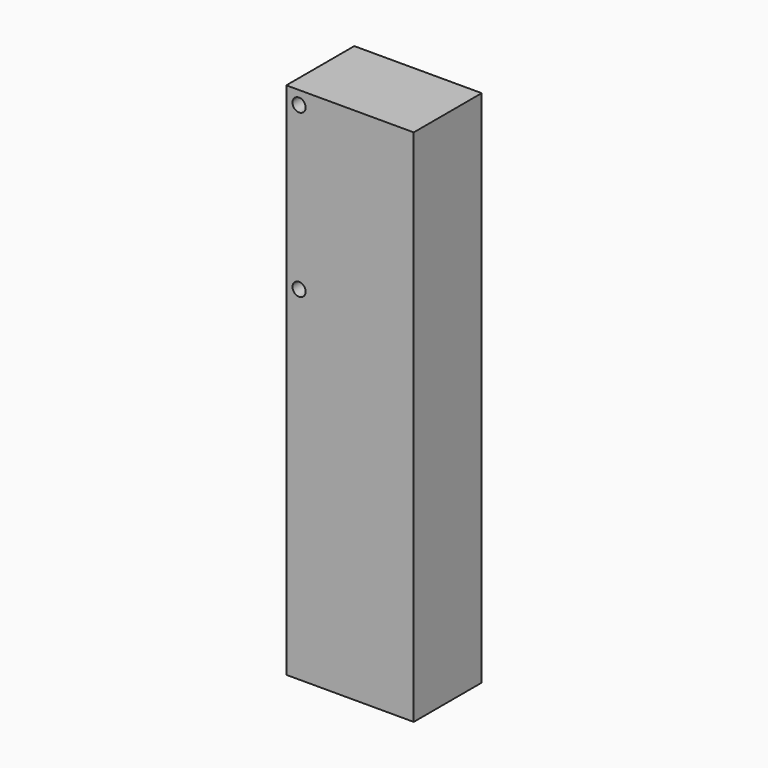
from build123d import *

# Parameters (mm, degrees)
F0_W     = 30
F0_H     = 122.2
F1_DEPTH = 20
F3_D     = 3.1
F5_D     = 5
F5_DEPTH = 10
F5_TIP   = 1.5021515476


with BuildPart() as f1:
    # F0 (on Front) → F1 (new body)
    with BuildSketch(Plane.XZ):
        Rectangle(F0_W, F0_H)
    extrude(amount=F1_DEPTH)

    # F3 (through all)
    with Locations(Plane.XZ.offset(20)):
        with Locations((-12, 58), (-12, 19.8)):
            Hole(F3_D / 2)

    # F5
    with Locations(Plane(origin=(0, 0, -61.1), x_dir=(1, 0, 0), z_dir=(0, 0, -1))):
        with Locations((-7.5, 10), (7.5, 10)):
            Hole(F5_D / 2, depth=F5_DEPTH)
            with Locations((0, 0, -(F5_DEPTH + F5_TIP / 2))):  # 118° drill point
                Cone(0, F5_D / 2, F5_TIP, mode=Mode.SUBTRACT)


solid = f1.part
